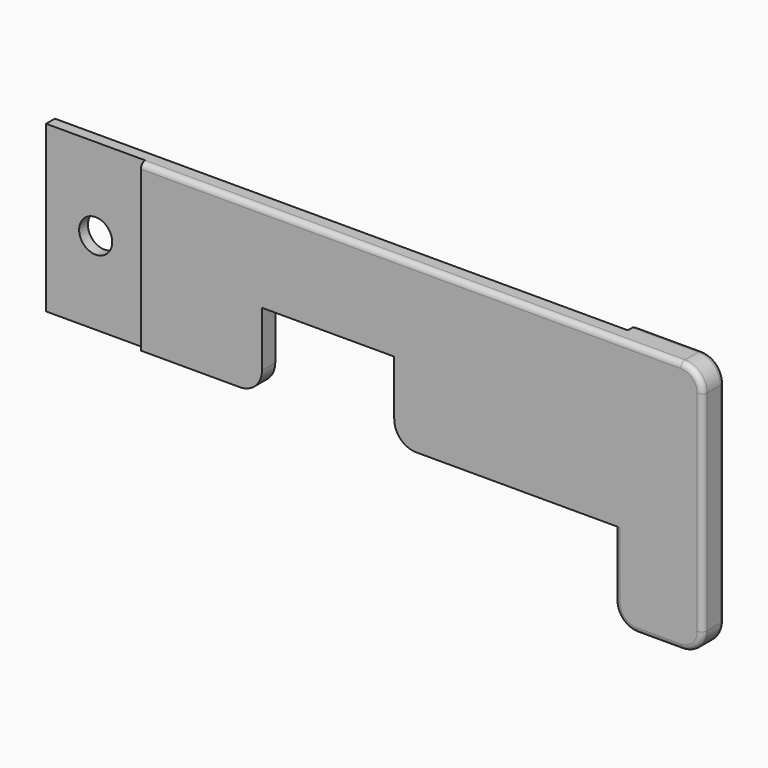
from build123d import *

# Parameters (mm, degrees)
F0_W      = 62
F0_H      = 15
F1_DEPTH  = 1.5
F2_W      = 10
F2_H      = 8
F3_DEPTH  = 1.5
F4_W      = 12
F4_H      = 7
F5_DEPTH  = 1.501
F6_R      = 1.5
F7_DEPTH  = 1.501
F8_W      = 9
F8_H      = 0.5
F9_DEPTH  = 15.001
F10_W     = 2
F10_H     = 1.5
F11_DEPTH = 23.001
F12_W     = 8
F12_H     = 23
F13_DEPTH = 1
F14_R     = 2
F15_R     = 0.5


with BuildPart() as f1:
    # F0 (on Front) → F1 (new body)
    with BuildSketch(Plane.XZ):
        with Locations((-6, 0)):
            Rectangle(F0_W, F0_H)
    extrude(amount=F1_DEPTH)

    # F2 (on face) → F3 (join, through all)
    with BuildSketch(Plane.XZ.offset(1.5)):
        with Locations((20, -11.5)):
            Rectangle(F2_W, F2_H)
    extrude(amount=-F3_DEPTH)

    # F4 (on face) → F5 (cut, through all)
    with BuildSketch(Plane.XZ.offset(1.5)):
        with Locations((-11, -4)):
            Rectangle(F4_W, F4_H)
    extrude(amount=-F5_DEPTH, mode=Mode.SUBTRACT)

    # F6 (on face) → F7 (cut, through all)
    with BuildSketch(Plane.XZ.offset(1.5)):
        with Locations((-32.5, 0)):
            Circle(F6_R)
    extrude(amount=-F7_DEPTH, mode=Mode.SUBTRACT)

    # F8 (on face) → F9 (cut, through all)
    with BuildSketch(Plane(origin=(0, 0, -7.5), x_dir=(1, 0, 0), z_dir=(0, 0, -1))):
        with Locations((-32.5, 1.25)):
            Rectangle(F8_W, F8_H)
    extrude(amount=-F9_DEPTH, mode=Mode.SUBTRACT)

    # F10 (on face) → F11 (cut, through all)
    with BuildSketch(Plane(origin=(0, 0, -15.5), x_dir=(1, 0, 0), z_dir=(0, 0, -1))):
        with Locations((24, 0.75)):
            Rectangle(F10_W, F10_H)
    extrude(amount=-F11_DEPTH, mode=Mode.SUBTRACT)

    # F12 (on face) → F13 (join)
    with BuildSketch(Plane(origin=(0, 0, 0), x_dir=(-1, 0, 0), z_dir=(0, 1, 0))):
        with Locations((-19, -4)):
            Rectangle(F12_W, F12_H)
    extrude(amount=F13_DEPTH)

    # F14
    f14_edges = [f1.edges().sort_by_distance(p)[0] for p in [
        (15, -0.25, -15.5),
        (23, -0.25, -15.5),
        (23, -0.25, 7.5),
        (-5, -0.75, -7.5),
        (-17, -0.75, -7.5),
    ]]
    fillet(f14_edges, radius=F14_R)

    # F15
    f15_edges = [f1.edges().sort_by_distance(p)[0] for p in [
        (23, 1, -4),
        (23, -1.5, -4),
    ]]
    fillet(f15_edges, radius=F15_R)


solid = f1.part
